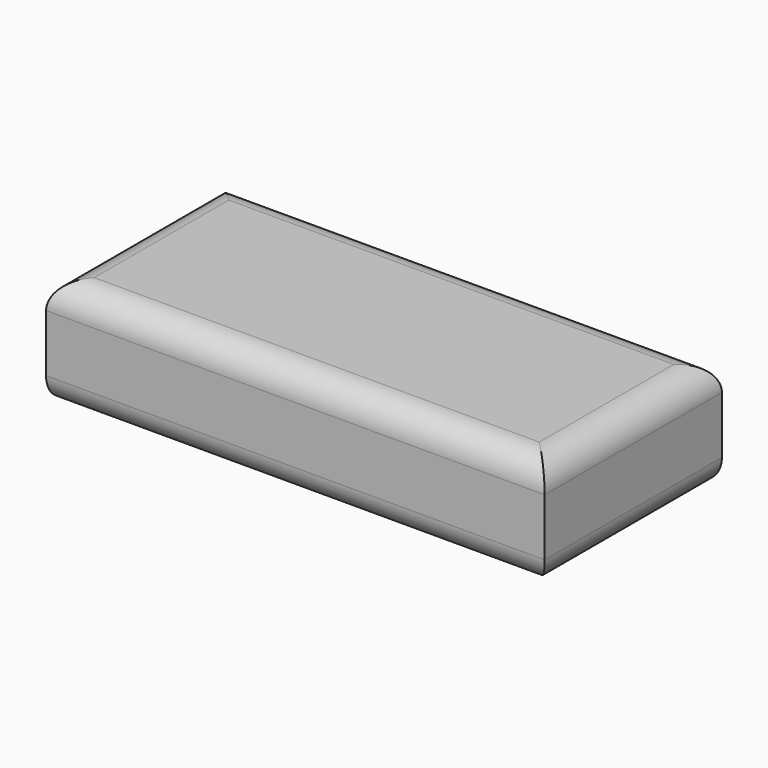
from build123d import *

# Parameters (mm, degrees)
F0_W     = 114.3
F0_H     = 50.8
F1_DEPTH = 25.4
F2_R     = 6.132102


with BuildPart() as f1:
    # F0 (on Top) → F1 (new body)
    with BuildSketch(Plane.XY):
        Rectangle(F0_W, F0_H)
    extrude(amount=F1_DEPTH)

    # F2
    f2_edges = [f1.edges().sort_by_distance(p)[0] for p in [
        (57.15, 0, 0),
        (-57.15, 0, 25.4),
        (0, -25.4, 25.4),
        (0, 25.4, 25.4),
        (57.15, 0, 25.4),
        (0, -25.4, 0),
    ]]
    fillet(f2_edges, radius=F2_R)


solid = f1.part
